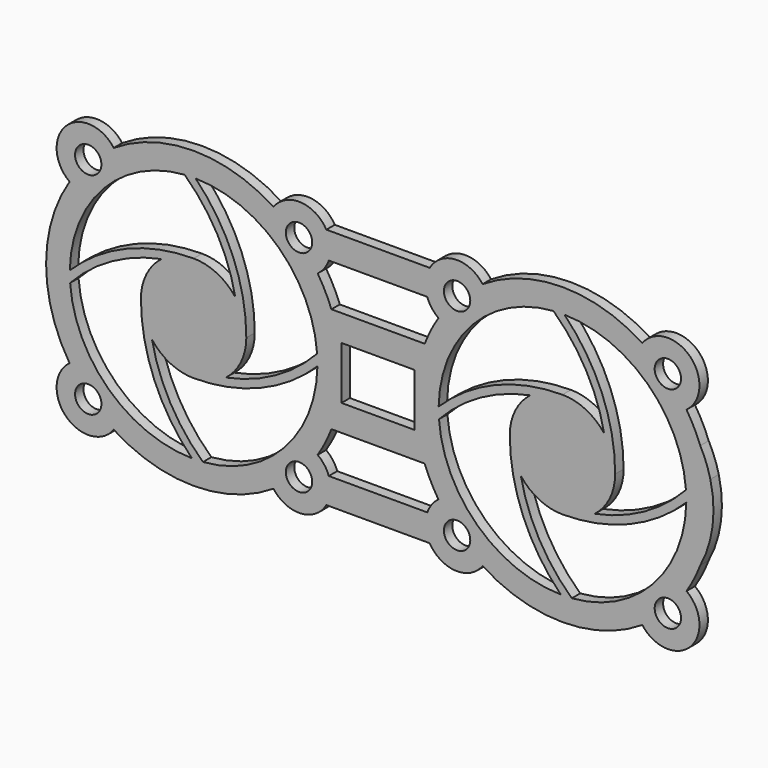
from build123d import *

# Parameters (mm, degrees)
F0_R     = 2.5
F0_W     = 13.873467
F0_H     = 10.023556
F1_DEPTH = 2


with BuildPart() as f1:
    # F0 (on Front) → F1 (new body)
    with BuildSketch(Plane.XZ):
        with BuildLine():
            ThreePointArc((36.719143, 15.101325), (37.419231, 24.186519), (28.334037, 23.486431))
            ThreePointArc((28.334037, 23.486431), (13.17659, 27.943878), (-1.980857, 23.486431))
            ThreePointArc((-1.980857, 23.486431), (-7.144612, 25.935274), (-12.016955, 22.94839))
            Line((-12.016955, 22.94839), (-31.629865, 22.94839))
            ThreePointArc((-31.629865, 22.94839), (-36.502208, 25.935274), (-41.665963, 23.486431))
            ThreePointArc((-41.665963, 23.486431), (-56.82341, 27.943878), (-71.980857, 23.486431))
            ThreePointArc((-71.980857, 23.486431), (-81.066051, 24.186519), (-80.365963, 15.101325))
            ThreePointArc((-80.365963, 15.101325), (-84.82341, -0.056122), (-80.365963, -15.213569))
            ThreePointArc((-80.365963, -15.213569), (-81.066051, -24.298763), (-71.980857, -23.598675))
            ThreePointArc((-71.980857, -23.598675), (-56.82341, -28.056122), (-41.665963, -23.598675))
            ThreePointArc((-41.665963, -23.598675), (-36.502208, -26.047518), (-31.629865, -23.060634))
            Line((-31.629865, -23.060634), (-12.016955, -23.060634))
            ThreePointArc((-12.016955, -23.060634), (-7.144612, -26.047518), (-1.980857, -23.598675))
            ThreePointArc((-1.980857, -23.598675), (13.17659, -28.056122), (28.334037, -23.598675))
            ThreePointArc((28.334037, -23.598675), (37.419231, -24.298763), (36.719143, -15.213569))
            ThreePointArc((36.719143, -15.213569), (38.161421, -12.695672), (39.335368, -10.042029))
            ThreePointArc((39.335368, -10.042029), (41.668623, -2.730663), (41.24273, 4.932154))
            ThreePointArc((41.24273, 4.932154), (40.446435, 7.495779), (39.332206, 9.938063))
            ThreePointArc((39.332206, 9.938063), (38.159421, 12.587381), (36.719143, 15.101325))
        make_face()
        with Locations((-76.82341, -20.056122)):
            Circle(F0_R, mode=Mode.SUBTRACT)
        with Locations((-36.82341, -20.056122)):
            Circle(F0_R, mode=Mode.SUBTRACT)
        with BuildLine():
            ThreePointArc((-12.972297, -10.0679), (-11.801986, -12.708028), (-10.365963, -15.213569))
            ThreePointArc((-10.365963, -15.213569), (-11.639118, -16.477162), (-12.481857, -18.060634))
            Line((-12.481857, -18.060634), (-31.164963, -18.060634))
            ThreePointArc((-31.164963, -18.060634), (-32.007702, -16.477162), (-33.280857, -15.213569))
            ThreePointArc((-33.280857, -15.213569), (-31.844834, -12.708028), (-30.674523, -10.0679))
            Line((-30.674523, -10.0679), (-12.972297, -10.0679))
        make_face(mode=Mode.SUBTRACT)
        with BuildLine():
            ThreePointArc((-62.942122, 7.853453), (-65.800801, 4.349152), (-66.82341, -0.056122))
            ThreePointArc((-66.82341, -0.056122), (-66.823361, -0.080004), (-66.823296, -0.103885))
            ThreePointArc((-66.823296, -0.103885), (-64.289716, -12.78048), (-57.144925, -23.553922))
            ThreePointArc((-57.144925, -23.553922), (-72.940781, -17.158179), (-80.260911, -1.768888))
            ThreePointArc((-80.260911, -1.768888), (-72.36496, 4.416369), (-62.942122, 7.853453))
        make_face(mode=Mode.SUBTRACT)
        with BuildLine():
            ThreePointArc((-64.718322, -6.193741), (-61.217941, -9.038777), (-56.82341, -10.056122))
            ThreePointArc((-56.82341, -10.056122), (-44.12797, -7.557344), (-33.326445, -0.433782))
            ThreePointArc((-33.326445, -0.433782), (-39.721353, -16.173493), (-55.054649, -23.489463))
            ThreePointArc((-55.054649, -23.489463), (-61.25874, -15.608324), (-64.718322, -6.193741))
        make_face(mode=Mode.SUBTRACT)
        with Locations((-6.82341, -20.056122)):
            Circle(F0_R, mode=Mode.SUBTRACT)
        with Locations((33.17659, -20.056122)):
            Circle(F0_R, mode=Mode.SUBTRACT)
        with BuildLine():
            ThreePointArc((7.057878, 7.853453), (4.199459, 4.349684), (3.17659, -0.054937))
            ThreePointArc((3.17659, -0.054937), (3.176641, -0.080004), (3.17671, -0.10507))
            ThreePointArc((3.17671, -0.10507), (5.710512, -12.781028), (12.855078, -23.553922))
            ThreePointArc((12.855078, -23.553922), (-2.94078, -17.15818), (-10.260911, -1.768888))
            ThreePointArc((-10.260911, -1.768888), (-2.36496, 4.416369), (7.057878, 7.853453))
        make_face(mode=Mode.SUBTRACT)
        with BuildLine():
            ThreePointArc((5.281681, -6.193744), (8.782061, -9.038778), (13.17659, -10.056122))
            ThreePointArc((13.17659, -10.056122), (25.87203, -7.557344), (36.673555, -0.433782))
            ThreePointArc((36.673555, -0.433782), (30.278648, -16.173492), (14.945354, -23.489463))
            ThreePointArc((14.945354, -23.489463), (8.741263, -15.608326), (5.281681, -6.193744))
        make_face(mode=Mode.SUBTRACT)
        with BuildLine():
            ThreePointArc((-80.320375, 0.321538), (-73.9062, 16.081669), (-58.536176, 23.381379))
            ThreePointArc((-58.536176, 23.381379), (-52.350919, 15.485428), (-48.913835, 6.06259))
            ThreePointArc((-48.913835, 6.06259), (-52.418136, 8.92127), (-56.82341, 9.943878))
            ThreePointArc((-56.82341, 9.943878), (-69.51885, 7.445101), (-80.320375, 0.321538))
        make_face(mode=Mode.SUBTRACT)
        with Locations((-21.82341, -0.056122)):
            Rectangle(F0_W, F0_H, mode=Mode.SUBTRACT)
        with BuildLine():
            ThreePointArc((-50.704698, -7.965696), (-47.846018, -4.461396), (-46.82341, -0.056122))
            ThreePointArc((-46.82341, -0.056122), (-49.322187, 12.639318), (-56.44575, 23.440843))
            ThreePointArc((-56.44575, 23.440843), (-40.685619, 17.026668), (-33.385909, 1.656644))
            ThreePointArc((-33.385909, 1.656644), (-41.28186, -4.528612), (-50.704698, -7.965696))
        make_face(mode=Mode.SUBTRACT)
        with Locations((-76.82341, 19.943878)):
            Circle(F0_R, mode=Mode.SUBTRACT)
        with BuildLine():
            Line((-12.972297, 9.955656), (-30.674523, 9.955656))
            ThreePointArc((-30.674523, 9.955656), (-31.844834, 12.595784), (-33.280857, 15.101325))
            ThreePointArc((-33.280857, 15.101325), (-32.007702, 16.364918), (-31.164963, 17.94839))
            Line((-31.164963, 17.94839), (-12.481857, 17.94839))
            ThreePointArc((-12.481857, 17.94839), (-11.639118, 16.364918), (-10.365963, 15.101325))
            ThreePointArc((-10.365963, 15.101325), (-11.801986, 12.595784), (-12.972297, 9.955656))
        make_face(mode=Mode.SUBTRACT)
        with Locations((-36.82341, 19.943878)):
            Circle(F0_R, mode=Mode.SUBTRACT)
        with BuildLine():
            ThreePointArc((-10.320375, 0.321538), (-3.905793, 16.082099), (11.465005, 23.381465))
            ThreePointArc((11.465005, 23.381465), (17.649864, 15.485203), (21.086473, 6.062191))
            ThreePointArc((21.086473, 6.062191), (17.582091, 8.921159), (13.17659, 9.943878))
            ThreePointArc((13.17659, 9.943878), (0.48115, 7.445101), (-10.320375, 0.321538))
        make_face(mode=Mode.SUBTRACT)
        with BuildLine():
            ThreePointArc((19.295302, -7.965696), (22.154242, -4.460865), (23.17659, -0.054937))
            ThreePointArc((23.17659, -0.054937), (20.678132, 12.639721), (13.555434, 23.440824))
            ThreePointArc((13.555434, 23.440824), (29.314811, 17.026261), (36.614091, 1.656644))
            ThreePointArc((36.614091, 1.656644), (28.71814, -4.528612), (19.295302, -7.965696))
        make_face(mode=Mode.SUBTRACT)
        with Locations((-6.82341, 19.943878)):
            Circle(F0_R, mode=Mode.SUBTRACT)
        with Locations((33.17659, 19.943878)):
            Circle(F0_R, mode=Mode.SUBTRACT)
    extrude(amount=F1_DEPTH)


with BuildPart() as f1_1:
    # F2: moved
    add(f1.part.moved(Location((21.6, 0, 0))))


solid = f1_1.part
